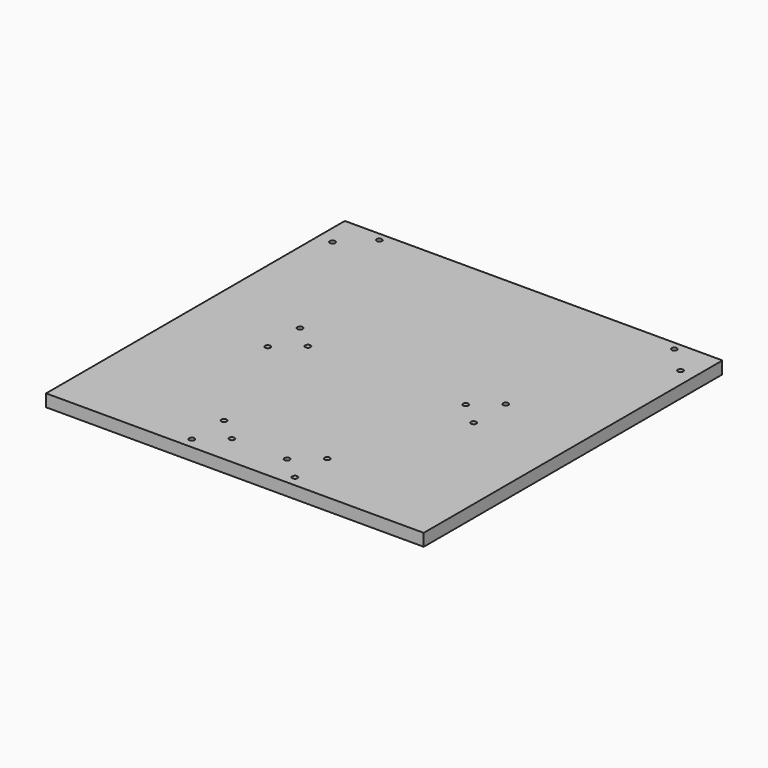
from build123d import *

# Parameters (mm, degrees)
F0_R     = 1.25
F1_DEPTH = 5.8


with BuildPart() as f1:
    # F0 (on Top) → F1 (new body)
    with BuildSketch(Plane.XY):
        with BuildLine():
            ThreePointArc((89, 87.5), (88.853553, 87.853553), (88.5, 88))
            Line((88.5, 88), (-88.5, 88))
            ThreePointArc((-88.5, 88), (-88.853553, 87.853553), (-89, 87.5))
            Line((-89, 87.5), (-89, -88))
            Line((-89, -88), (2, -88))
            Line((2, -88), (58.5, -88))
            Line((58.5, -88), (89, -88))
            Line((89, -88), (89, 87.5))
        make_face()
        with Locations((-24.3, -83)):
            Circle(F0_R, mode=Mode.SUBTRACT)
        with Locations((-13, -73.5)):
            Circle(F0_R, mode=Mode.SUBTRACT)
        with Locations((-24.3, -64)):
            Circle(F0_R, mode=Mode.SUBTRACT)
        with Locations((-48.5, -8)):
            Circle(F0_R, mode=Mode.SUBTRACT)
        with Locations((13, -73.5)):
            Circle(F0_R, mode=Mode.SUBTRACT)
        with Locations((24.3, -83)):
            Circle(F0_R, mode=Mode.SUBTRACT)
        with Locations((24.3, -64)):
            Circle(F0_R, mode=Mode.SUBTRACT)
        with Locations((48.5, -8)):
            Circle(F0_R, mode=Mode.SUBTRACT)
        with Locations((-48.5, 11)):
            Circle(F0_R, mode=Mode.SUBTRACT)
        with Locations((-37.2, 1.5)):
            Circle(F0_R, mode=Mode.SUBTRACT)
        with Locations((-82, 72)):
            Circle(F0_R, mode=Mode.SUBTRACT)
        with Locations((-69.5, 84)):
            Circle(F0_R, mode=Mode.SUBTRACT)
        with Locations((37.2, 1.5)):
            Circle(F0_R, mode=Mode.SUBTRACT)
        with Locations((48.5, 11)):
            Circle(F0_R, mode=Mode.SUBTRACT)
        with Locations((82, 72)):
            Circle(F0_R, mode=Mode.SUBTRACT)
        with Locations((69.5, 84)):
            Circle(F0_R, mode=Mode.SUBTRACT)
    extrude(amount=F1_DEPTH)


solid = f1.part
